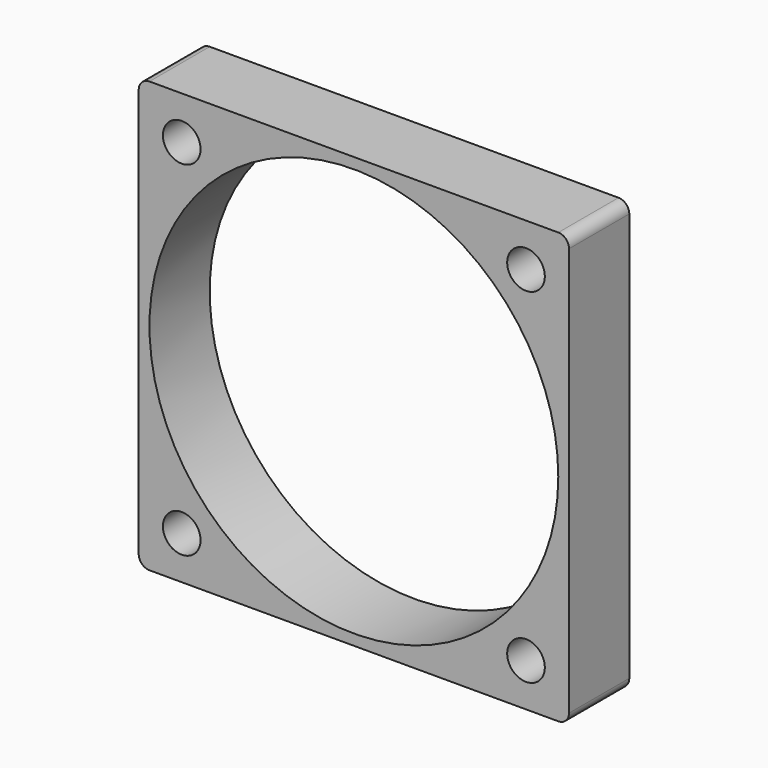
from build123d import *

# Parameters (mm, degrees)
F0_W     = 40
F0_H     = 40
F0_R     = 1.75
F0_R_2   = 19
F1_DEPTH = 7
F2_R     = 1


with BuildPart() as f1:
    # F0 (on Front) → F1 (new body)
    with BuildSketch(Plane.XZ):
        Rectangle(F0_W, F0_H)
        with Locations((-16, -16)):
            Circle(F0_R, mode=Mode.SUBTRACT)
        with Locations((16, -16)):
            Circle(F0_R, mode=Mode.SUBTRACT)
        with Locations((-16, 16)):
            Circle(F0_R, mode=Mode.SUBTRACT)
        Circle(F0_R_2, mode=Mode.SUBTRACT)
        with Locations((16, 16)):
            Circle(F0_R, mode=Mode.SUBTRACT)
    extrude(amount=F1_DEPTH)

    # F2
    f2_edges = [f1.edges().sort_by_distance(p)[0] for p in [
        (20, -3.5, -20),
        (-20, -3.5, -20),
        (20, -3.5, 20),
        (-20, -3.5, 20),
    ]]
    fillet(f2_edges, radius=F2_R)


solid = f1.part
